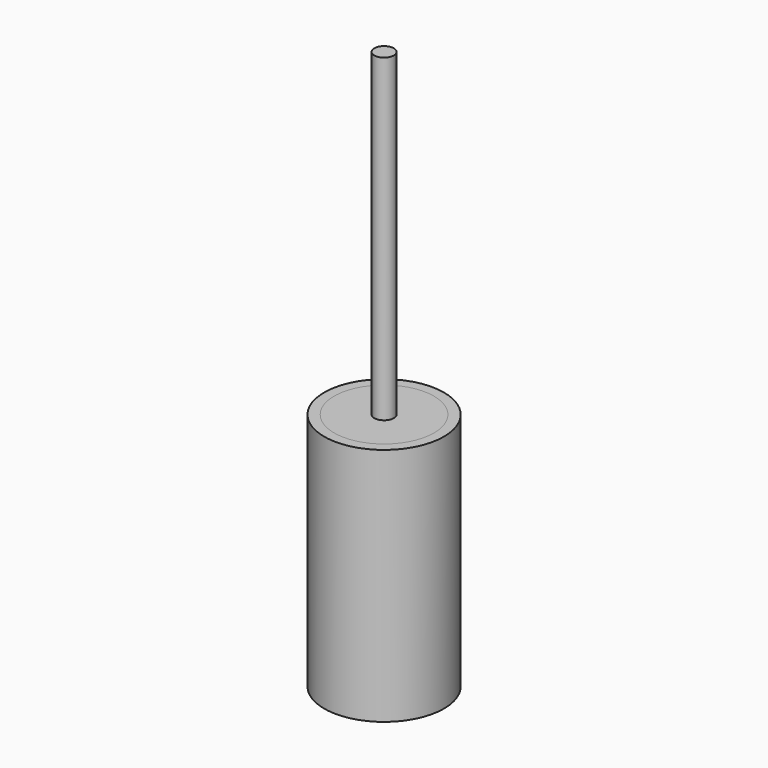
from build123d import *

# Parameters (mm, degrees)
F0_R     = 38.1
F1_DEPTH = 76.2
F2_T     = -6.35
F3_R     = 31.75
F4_DEPTH = 6.35
F5_D     = 12.7
F6_R     = 6.223
F7_DEPTH = 203.2
F8_R     = 31.75
F8_R_2   = 6.223
F9_DEPTH = 6.35


with BuildPart() as f1:
    # F0 (on Top) → F1 (new body, symmetric)
    with BuildSketch(Plane.XY):
        Circle(F0_R)
    extrude(amount=F1_DEPTH, both=True)

    # F2
    f2_openings = [f1.faces().sort_by_distance(p)[0] for p in [
        (0, 0, 76.2),
    ]]
    offset(amount=F2_T, openings=f2_openings)


with BuildPart() as f4:
    # F3 (on face) → F4 (new body)
    with BuildSketch(Plane.XY.offset(76.2)):
        Circle(F3_R)
    extrude(amount=-F4_DEPTH)

    # F5 (through all)
    with Locations(Plane.XY.offset(76.2)):
        with Locations((0, 0)):
            Hole(F5_D / 2)


with BuildPart() as f7:
    # F6 (on face) → F7 (new body)
    with BuildSketch(Plane.XY.offset(76.2)):
        Circle(F6_R)
    extrude(amount=F7_DEPTH)


with BuildPart() as f9:
    # F8 (on face) → F9 (new body)
    with BuildSketch(Plane(origin=(0, 0, 76.2), x_dir=(1, 0, 0), z_dir=(0, 0, -1))):
        Circle(F8_R)
        Circle(F8_R_2, mode=Mode.SUBTRACT)
    extrude(amount=F9_DEPTH)


solid = Compound([f1.part, f4.part, f7.part, f9.part])
